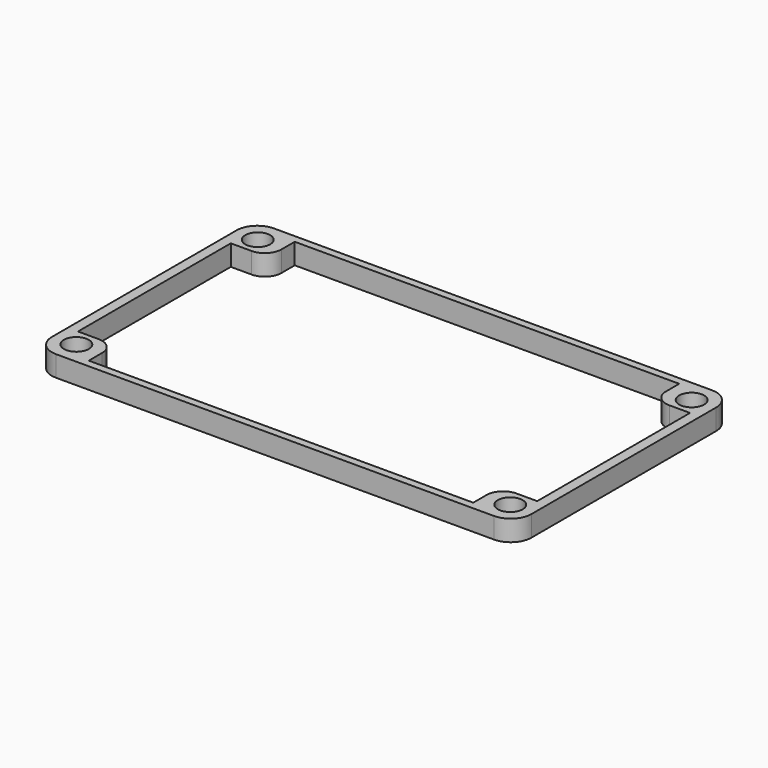
from build123d import *

# Parameters (mm, degrees)
F0_R     = 3
F1_DEPTH = 5


with BuildPart() as f1:
    # F0 (on Top) → F1 (new body)
    with BuildSketch(Plane.XY):
        with BuildLine():
            Line((-52.75, -32.8), (52.75, -32.8))
            ThreePointArc((52.75, -32.8), (56.285534, -31.335534), (57.75, -27.8))
            Line((57.75, -27.8), (57.75, 27.8))
            ThreePointArc((57.75, 27.8), (56.285534, 31.335534), (52.75, 32.8))
            Line((52.75, 32.8), (-52.75, 32.8))
            ThreePointArc((-52.75, 32.8), (-56.285534, 31.335534), (-57.75, 27.8))
            Line((-57.75, 27.8), (-57.75, -27.8))
            ThreePointArc((-57.75, -27.8), (-56.285534, -31.335534), (-52.75, -32.8))
        make_face()
        with Locations((-52.25, -27.3)):
            Circle(F0_R, mode=Mode.SUBTRACT)
        with Locations((52.25, -27.3)):
            Circle(F0_R, mode=Mode.SUBTRACT)
        with Locations((-52.25, 27.3)):
            Circle(F0_R, mode=Mode.SUBTRACT)
        with BuildLine():
            Line((-46.3, 31), (46.3, 31))
            Line((46.3, 31), (46.3, 27))
            ThreePointArc((46.3, 27), (47.471573, 24.171573), (50.3, 23))
            Line((50.3, 23), (55.3, 23))
            Line((55.3, 23), (55.3, -23))
            Line((55.3, -23), (50.3, -23))
            ThreePointArc((50.3, -23), (47.471573, -24.171573), (46.3, -27))
            Line((46.3, -27), (46.3, -31))
            Line((46.3, -31), (-46.3, -31))
            Line((-46.3, -31), (-46.3, -27))
            ThreePointArc((-46.3, -27), (-47.471573, -24.171573), (-50.3, -23))
            Line((-50.3, -23), (-55.3, -23))
            Line((-55.3, -23), (-55.3, 23))
            Line((-55.3, 23), (-50.3, 23))
            ThreePointArc((-50.3, 23), (-47.471573, 24.171573), (-46.3, 27))
            Line((-46.3, 27), (-46.3, 31))
        make_face(mode=Mode.SUBTRACT)
        with Locations((52.25, 27.3)):
            Circle(F0_R, mode=Mode.SUBTRACT)
    extrude(amount=F1_DEPTH)


solid = f1.part
